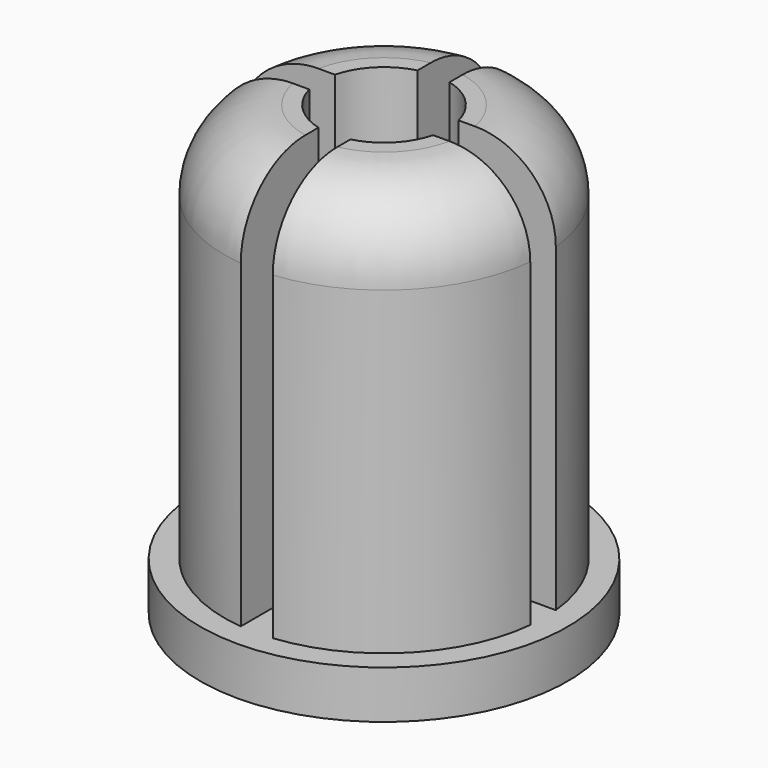
from build123d import *

# Parameters (mm, degrees)
F0_R      = 10
F0_R_2    = 4
F1_DEPTH  = 25
F2_R      = 11.5
F2_R_2    = 4
F3_DEPTH  = 3
F4_W      = 15.4053421468
F4_H      = 2
F4_W_2    = 2
F4_H_2    = 14.8476130934
F4_H_3    = 18.3621469838
F5_DEPTH  = 25
F6_R      = 5
F7_W      = 54.985769093
F7_H      = 45.2365130186
F8_DEPTH  = 25
F11_COUNT = 4
F11_ANGLE = 270


with BuildPart() as f1:
    # F0 (on Top) → F1 (new body)
    with BuildSketch(Plane.XY):
        Circle(F0_R)
        Circle(F0_R_2, mode=Mode.SUBTRACT)
    extrude(amount=F1_DEPTH)

    # F2 (on Top) → F3 (join)
    with BuildSketch(Plane.XY):
        Circle(F2_R)
        Circle(F2_R_2, mode=Mode.SUBTRACT)
    extrude(amount=-F3_DEPTH)

    # F4 (on Top) → F5 (cut)
    with BuildSketch(Plane.XY):
        with Locations((-8.7026710734, 0)):
            Rectangle(F4_W, F4_H)
        with Locations((0, 8.4238065467)):
            Rectangle(F4_W_2, F4_H_2)
        Rectangle(F4_W_2, F4_H)
        Polygon((17.6404397935, 1), (1, 1), (1, -1), (18.0223640054, -1), align=None)
        with Locations((0, -10.1810734919)):
            Rectangle(F4_W_2, F4_H_3)
    extrude(amount=F5_DEPTH, mode=Mode.SUBTRACT)

    # F6
    f6_edges = [f1.edges().sort_by_distance(p)[0] for p in [
        (7.071068, -7.071068, 25),
        (7.071068, 7.071068, 25),
        (-7.071068, 7.071068, 25),
        (-7.071068, -7.071068, 25),
    ]]
    fillet(f6_edges, radius=F6_R)


with BuildPart() as f8:
    # F7 (on Top) → F8 (new body)
    with BuildSketch(Plane.XY):
        with Locations((-82.9663015902, -56.8597912788)):
            Rectangle(F7_W, F7_H)
    extrude(amount=F8_DEPTH)


with BuildPart() as f11_1:
    # F11: instance of F1
    add(f1.part.rotate(Axis((0, -20.0353357941, 8.0697890371), (0, 0, -1)), 1 * F11_ANGLE / (F11_COUNT - 1)))


with BuildPart() as f11_2:
    # F11: instance of F1
    add(f1.part.rotate(Axis((0, -20.0353357941, 8.0697890371), (0, 0, -1)), 2 * F11_ANGLE / (F11_COUNT - 1)))


with BuildPart() as f11_3:
    # F11: instance of F1
    add(f1.part.rotate(Axis((0, -20.0353357941, 8.0697890371), (0, 0, -1)), 3 * F11_ANGLE / (F11_COUNT - 1)))


solid = f11_1.part
